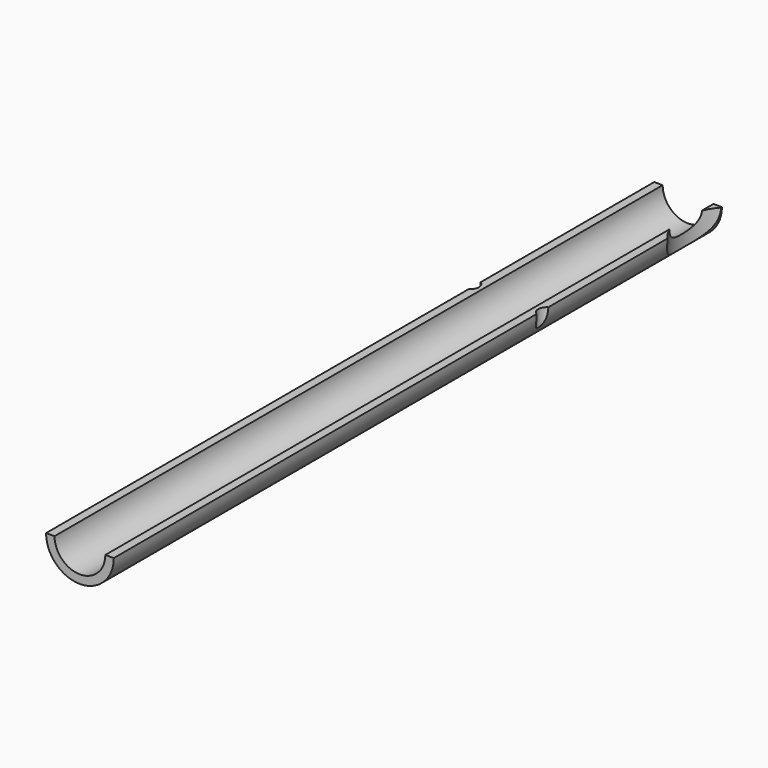
from build123d import *

# Parameters (mm, degrees)
F0_R          = 4
F0_R_2        = 3
F1_DEPTH      = 89.8
F3_DEPTH      = 96.4
F4_R          = 6
F5_DEPTH      = 25
F5_DEPTH_BACK = 25
F6_R          = 1
F7_DEPTH      = 25
F7_DEPTH_BACK = 25


with BuildPart() as f1:
    # F0 (on Front) → F1 (new body)
    with BuildSketch(Plane.XZ):
        Circle(F0_R)
        Circle(F0_R_2, mode=Mode.SUBTRACT)
    extrude(amount=F1_DEPTH)

    # F2 (on face) → F3 (cut)
    with BuildSketch(Plane.XZ.offset(89.8)):
        Polygon((-5.919513, 0), (0, 0), (6.079678, 0), (6.079678, 7.445201), (-5.919513, 7.445201), align=None)
    extrude(amount=-F3_DEPTH, mode=Mode.SUBTRACT)

    # F4 (on Top) → F5 (cut, two sides)
    with BuildSketch(Plane.XY) as f5_sk:
        with Locations((8.5, -4.1)):
            Circle(F4_R)
    extrude(amount=-F5_DEPTH, mode=Mode.SUBTRACT)
    extrude(f5_sk.sketch, amount=-F5_DEPTH_BACK, mode=Mode.SUBTRACT)

    # F6 (on face) → F7 (cut, two sides)
    with BuildSketch(Plane.XY) as f7_sk:
        with Locations((4.5, -26.5)):
            Circle(F6_R)
        with Locations((-4.5, -26.5)):
            Circle(F6_R)
    extrude(amount=-F7_DEPTH, mode=Mode.SUBTRACT)
    extrude(f7_sk.sketch, amount=-F7_DEPTH_BACK, mode=Mode.SUBTRACT)


solid = f1.part
